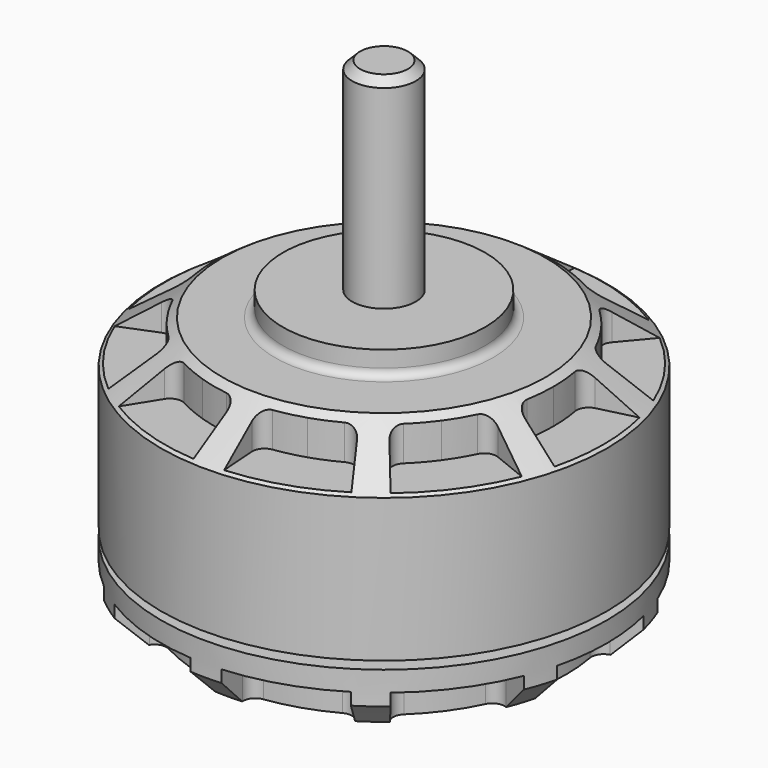
from build123d import *

# Parameters (mm, degrees)
F2_SIZE  = 0.5
F3_R     = 0.5
F5_DEPTH = 2.54
F7_DEPTH = 2.54


with BuildPart() as f1:
    # F0 (on Front) → F1 (revolve)
    with BuildSketch(Plane.XZ):
        Polygon((0, 30.226), (0, 0), (12.222, 0), (14, 1.778), (14, 3.81), (12.476, 3.81), (12.476, 4.31), (14, 4.31), (14, 13.313203), (10.16, 16.002), (6.35, 16.002), (6.35, 17.526), (2, 17.526), (2, 30.226), align=None)
    revolve(axis=Axis((0, 0, 23.439698), (0, 0, 1)))

    # F2
    f2_edges = [f1.edges().sort_by_distance(p)[0] for p in [
        (-2, 0, 30.226),
    ]]
    chamfer(f2_edges, length=F2_SIZE)

    # F3
    f3_edges = [f1.edges().sort_by_distance(p)[0] for p in [
        (-6.35, 0, 16.002),
    ]]
    fillet(f3_edges, radius=F3_R)

    # F4 (on face) → F5 (cut)
    with BuildSketch(Plane.XY.offset(16.002)):
        with BuildLine():
            ThreePointArc((11.058028, 2.757076), (10.602673, 2.43175), (10.492356, 1.883102))
            ThreePointArc((10.492356, 1.883102), (10.618006, 0.945275), (10.66, 0))
            ThreePointArc((10.66, 0), (10.618006, -0.945275), (10.492356, -1.883102))
            ThreePointArc((10.492356, -1.883102), (10.602673, -2.43175), (11.058028, -2.757076))
            Line((11.058028, -2.757076), (13.58414, -3.386907))
            ThreePointArc((13.58414, -3.386907), (14, 0), (13.58414, 3.386907))
            Line((13.58414, 3.386907), (11.058028, 2.757076))
        make_face()
        with BuildLine():
            Line((8.999027, 10.724622), (7.325564, 8.730267))
            ThreePointArc((7.325564, 8.730267), (7.148395, 8.199422), (7.381634, 7.690714))
            ThreePointArc((7.381634, 7.690714), (8.034529, 7.005851), (8.624121, 6.265791))
            ThreePointArc((8.624121, 6.265791), (9.145766, 5.476364), (9.595354, 4.64379))
            ThreePointArc((9.595354, 4.64379), (10.00709, 4.264767), (10.566701, 4.269224))
            Line((10.566701, 4.269224), (12.980574, 5.244492))
            ThreePointArc((12.980574, 5.244492), (11.326238, 8.228994), (8.999027, 10.724622))
        make_face()
        with BuildLine():
            Line((0.976591, 13.965897), (0.794983, 11.368792))
            ThreePointArc((0.794983, 11.368792), (0.963674, 10.835193), (1.451379, 10.560734))
            ThreePointArc((1.451379, 10.560734), (2.382134, 10.39043), (3.294121, 10.138262))
            ThreePointArc((3.294121, 10.138262), (4.180154, 9.806218), (5.033253, 9.396913))
            ThreePointArc((5.033253, 9.396913), (5.589138, 9.332289), (6.039253, 9.664826))
            Line((6.039253, 9.664826), (7.41887, 11.872673))
            ThreePointArc((7.41887, 11.872673), (4.326238, 13.314791), (0.976591, 13.965897))
        make_face()
        with BuildLine():
            Line((-7.41887, 11.872673), (-6.039253, 9.664826))
            ThreePointArc((-6.039253, 9.664826), (-5.589138, 9.332289), (-5.033253, 9.396913))
            ThreePointArc((-5.033253, 9.396913), (-4.180154, 9.806218), (-3.294121, 10.138262))
            ThreePointArc((-3.294121, 10.138262), (-2.382134, 10.39043), (-1.451379, 10.560734))
            ThreePointArc((-1.451379, 10.560734), (-0.963674, 10.835193), (-0.794983, 11.368792))
            Line((-0.794983, 11.368792), (-0.976591, 13.965897))
            ThreePointArc((-0.976591, 13.965897), (-4.326238, 13.314791), (-7.41887, 11.872673))
        make_face()
        with BuildLine():
            Line((-12.980574, 5.244492), (-10.566701, 4.269224))
            ThreePointArc((-10.566701, 4.269224), (-10.00709, 4.264767), (-9.595354, 4.64379))
            ThreePointArc((-9.595354, 4.64379), (-9.145766, 5.476364), (-8.624121, 6.265791))
            ThreePointArc((-8.624121, 6.265791), (-8.034529, 7.005851), (-7.381634, 7.690714))
            ThreePointArc((-7.381634, 7.690714), (-7.148395, 8.199422), (-7.325564, 8.730267))
            Line((-7.325564, 8.730267), (-8.999027, 10.724622))
            ThreePointArc((-8.999027, 10.724622), (-11.326238, 8.228994), (-12.980574, 5.244492))
        make_face()
        with BuildLine():
            Line((-13.58414, -3.386907), (-11.058028, -2.757076))
            ThreePointArc((-11.058028, -2.757076), (-10.602673, -2.43175), (-10.492356, -1.883102))
            ThreePointArc((-10.492356, -1.883102), (-10.618006, -0.945275), (-10.66, 0))
            ThreePointArc((-10.66, 0), (-10.618006, 0.945275), (-10.492356, 1.883102))
            ThreePointArc((-10.492356, 1.883102), (-10.602673, 2.43175), (-11.058028, 2.757076))
            Line((-11.058028, 2.757076), (-13.58414, 3.386907))
            ThreePointArc((-13.58414, 3.386907), (-14, 0), (-13.58414, -3.386907))
        make_face()
        with BuildLine():
            Line((-8.999027, -10.724622), (-7.325564, -8.730267))
            ThreePointArc((-7.325564, -8.730267), (-7.148395, -8.199422), (-7.381634, -7.690714))
            ThreePointArc((-7.381634, -7.690714), (-8.034529, -7.005851), (-8.624121, -6.265791))
            ThreePointArc((-8.624121, -6.265791), (-9.145766, -5.476364), (-9.595354, -4.64379))
            ThreePointArc((-9.595354, -4.64379), (-10.00709, -4.264767), (-10.566701, -4.269224))
            Line((-10.566701, -4.269224), (-12.980574, -5.244492))
            ThreePointArc((-12.980574, -5.244492), (-11.326238, -8.228994), (-8.999027, -10.724622))
        make_face()
        with BuildLine():
            Line((-0.976591, -13.965897), (-0.794983, -11.368792))
            ThreePointArc((-0.794983, -11.368792), (-0.963674, -10.835193), (-1.451379, -10.560734))
            ThreePointArc((-1.451379, -10.560734), (-2.382134, -10.39043), (-3.294121, -10.138262))
            ThreePointArc((-3.294121, -10.138262), (-4.180154, -9.806218), (-5.033253, -9.396913))
            ThreePointArc((-5.033253, -9.396913), (-5.589138, -9.332289), (-6.039253, -9.664826))
            Line((-6.039253, -9.664826), (-7.41887, -11.872673))
            ThreePointArc((-7.41887, -11.872673), (-4.326238, -13.314791), (-0.976591, -13.965897))
        make_face()
        with BuildLine():
            Line((7.41887, -11.872673), (6.039253, -9.664826))
            ThreePointArc((6.039253, -9.664826), (5.589138, -9.332289), (5.033253, -9.396913))
            ThreePointArc((5.033253, -9.396913), (4.180154, -9.806218), (3.294121, -10.138262))
            ThreePointArc((3.294121, -10.138262), (2.382134, -10.39043), (1.451379, -10.560734))
            ThreePointArc((1.451379, -10.560734), (0.963674, -10.835193), (0.794983, -11.368792))
            Line((0.794983, -11.368792), (0.976591, -13.965897))
            ThreePointArc((0.976591, -13.965897), (4.326238, -13.314791), (7.41887, -11.872673))
        make_face()
        with BuildLine():
            Line((12.980574, -5.244492), (10.566701, -4.269224))
            ThreePointArc((10.566701, -4.269224), (10.00709, -4.264767), (9.595354, -4.64379))
            ThreePointArc((9.595354, -4.64379), (9.145766, -5.476364), (8.624121, -6.265791))
            ThreePointArc((8.624121, -6.265791), (8.034529, -7.005851), (7.381634, -7.690714))
            ThreePointArc((7.381634, -7.690714), (7.148395, -8.199422), (7.325564, -8.730267))
            Line((7.325564, -8.730267), (8.999027, -10.724622))
            ThreePointArc((8.999027, -10.724622), (11.326238, -8.228994), (12.980574, -5.244492))
        make_face()
    extrude(amount=-F5_DEPTH, mode=Mode.SUBTRACT)

    # F6 (on face) → F7 (cut)
    with BuildSketch(Plane(origin=(0, 0, 0), x_dir=(1, 0, 0), z_dir=(0, 0, -1))):
        with BuildLine():
            Line((13.58414, 3.386907), (11.835883, 2.951017))
            ThreePointArc((11.835883, 2.951017), (11.379624, 2.624291), (11.270808, 2.073763))
            ThreePointArc((11.270808, 2.073763), (11.46, 0), (11.270808, -2.073763))
            ThreePointArc((11.270808, -2.073763), (11.379624, -2.624291), (11.835883, -2.951017))
            Line((11.835883, -2.951017), (13.58414, -3.386907))
            ThreePointArc((13.58414, -3.386907), (14, 0), (13.58414, 3.386907))
        make_face()
        with BuildLine():
            ThreePointArc((12.980574, 5.244492), (11.326238, 8.228994), (8.999027, 10.724622))
            Line((8.999027, 10.724622), (7.840866, 9.344381))
            ThreePointArc((7.840866, 9.344381), (7.66379, 8.811871), (7.899348, 8.302524))
            ThreePointArc((7.899348, 8.302524), (9.271335, 6.736019), (10.337202, 4.947105))
            ThreePointArc((10.337202, 4.947105), (10.748829, 4.565679), (11.309995, 4.569535))
            Line((11.309995, 4.569535), (12.980574, 5.244492))
        make_face()
        with BuildLine():
            ThreePointArc((7.41887, 11.872673), (4.326238, 13.314791), (0.976591, 13.965897))
            Line((0.976591, 13.965897), (0.850905, 12.168509))
            ThreePointArc((0.850905, 12.168509), (1.020648, 11.633616), (1.510605, 11.360003))
            ThreePointArc((1.510605, 11.360003), (3.541335, 10.899108), (5.455137, 10.078347))
            ThreePointArc((5.455137, 10.078347), (6.012346, 10.011715), (6.464073, 10.34468))
            Line((6.464073, 10.34468), (7.41887, 11.872673))
        make_face()
        with BuildLine():
            ThreePointArc((-0.976591, 13.965897), (-4.326238, 13.314791), (-7.41887, 11.872673))
            Line((-7.41887, 11.872673), (-6.464073, 10.34468))
            ThreePointArc((-6.464073, 10.34468), (-6.012346, 10.011715), (-5.455137, 10.078347))
            ThreePointArc((-5.455137, 10.078347), (-3.541335, 10.899108), (-1.510605, 11.360003))
            ThreePointArc((-1.510605, 11.360003), (-1.020648, 11.633616), (-0.850905, 12.168509))
            Line((-0.850905, 12.168509), (-0.976591, 13.965897))
        make_face()
        with BuildLine():
            ThreePointArc((-8.999027, 10.724622), (-11.326238, 8.228994), (-12.980574, 5.244492))
            Line((-12.980574, 5.244492), (-11.309995, 4.569535))
            ThreePointArc((-11.309995, 4.569535), (-10.748829, 4.565679), (-10.337202, 4.947105))
            ThreePointArc((-10.337202, 4.947105), (-9.271335, 6.736019), (-7.899348, 8.302524))
            ThreePointArc((-7.899348, 8.302524), (-7.66379, 8.811871), (-7.840866, 9.344381))
            Line((-7.840866, 9.344381), (-8.999027, 10.724622))
        make_face()
        with BuildLine():
            ThreePointArc((-13.58414, 3.386907), (-14, 0), (-13.58414, -3.386907))
            Line((-13.58414, -3.386907), (-11.835883, -2.951017))
            ThreePointArc((-11.835883, -2.951017), (-11.379624, -2.624291), (-11.270808, -2.073763))
            ThreePointArc((-11.270808, -2.073763), (-11.46, 0), (-11.270808, 2.073763))
            ThreePointArc((-11.270808, 2.073763), (-11.379624, 2.624291), (-11.835883, 2.951017))
            Line((-11.835883, 2.951017), (-13.58414, 3.386907))
        make_face()
        with BuildLine():
            ThreePointArc((-12.980574, -5.244492), (-11.326238, -8.228994), (-8.999027, -10.724622))
            Line((-8.999027, -10.724622), (-7.840866, -9.344381))
            ThreePointArc((-7.840866, -9.344381), (-7.66379, -8.811871), (-7.899348, -8.302524))
            ThreePointArc((-7.899348, -8.302524), (-9.271335, -6.736019), (-10.337202, -4.947105))
            ThreePointArc((-10.337202, -4.947105), (-10.748829, -4.565679), (-11.309995, -4.569535))
            Line((-11.309995, -4.569535), (-12.980574, -5.244492))
        make_face()
        with BuildLine():
            ThreePointArc((-7.41887, -11.872673), (-4.326238, -13.314791), (-0.976591, -13.965897))
            Line((-0.976591, -13.965897), (-0.850905, -12.168509))
            ThreePointArc((-0.850905, -12.168509), (-1.020648, -11.633616), (-1.510605, -11.360003))
            ThreePointArc((-1.510605, -11.360003), (-3.541335, -10.899108), (-5.455137, -10.078347))
            ThreePointArc((-5.455137, -10.078347), (-6.012346, -10.011715), (-6.464073, -10.34468))
            Line((-6.464073, -10.34468), (-7.41887, -11.872673))
        make_face()
        with BuildLine():
            ThreePointArc((0.976591, -13.965897), (4.326238, -13.314791), (7.41887, -11.872673))
            Line((7.41887, -11.872673), (6.464073, -10.34468))
            ThreePointArc((6.464073, -10.34468), (6.012346, -10.011715), (5.455137, -10.078347))
            ThreePointArc((5.455137, -10.078347), (3.541335, -10.899108), (1.510605, -11.360003))
            ThreePointArc((1.510605, -11.360003), (1.020648, -11.633616), (0.850905, -12.168509))
            Line((0.850905, -12.168509), (0.976591, -13.965897))
        make_face()
        with BuildLine():
            ThreePointArc((8.999027, -10.724622), (11.326238, -8.228994), (12.980574, -5.244492))
            Line((12.980574, -5.244492), (11.309995, -4.569535))
            ThreePointArc((11.309995, -4.569535), (10.748829, -4.565679), (10.337202, -4.947105))
            ThreePointArc((10.337202, -4.947105), (9.271335, -6.736019), (7.899348, -8.302524))
            ThreePointArc((7.899348, -8.302524), (7.66379, -8.811871), (7.840866, -9.344381))
            Line((7.840866, -9.344381), (8.999027, -10.724622))
        make_face()
    extrude(amount=-F7_DEPTH, mode=Mode.SUBTRACT)


solid = f1.part
